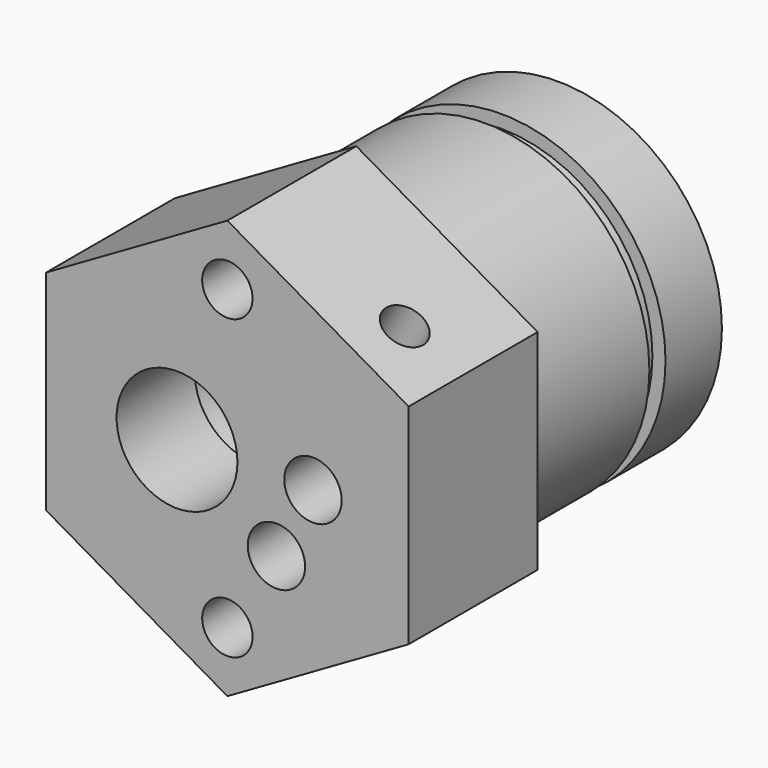
from build123d import *

# Parameters (mm, degrees)
F1_DEPTH  = 41
F2_R      = 24.5503927786
F2_R_2    = 16.3
F3_DEPTH  = 25
F4_R      = 24.0523887052
F4_R_2    = 15
F5_DEPTH  = 9
F6_R      = 16.3
F7_DEPTH  = 7
F8_R      = 2.85
F9_DEPTH  = 41.001
F10_R     = 13.8
F11_DEPTH = 2.3
F12_R     = 6
F13_DEPTH = 41.001
F14_R     = 6.5
F15_DEPTH = 29
F16_R     = 2.5
F17_DEPTH = 13
F18_R     = 2.5
F19_DEPTH = 13
F21_D     = 4.2
F21_DEPTH = 8
F21_TIP   = 1.2618073
F22_R     = 3
F23_DEPTH = 29


with BuildPart() as f1:
    # F0 (on Front) → F1 (new body)
    with BuildSketch(Plane.XZ):
        Polygon((0, -20.7846096908), (18, -10.3923048454), (18, 10.3923048454), (0, 20.7846096908), (-18, 10.3923048454), (-18, -10.3923048454), align=None)
    extrude(amount=-F1_DEPTH)

    # F2 (on face) → F3 (cut)
    with BuildSketch(Plane(origin=(0, 41, 0), x_dir=(-1, 0, 0), z_dir=(0, 1, 0))):
        Circle(F2_R)
        Circle(F2_R_2, mode=Mode.SUBTRACT)
    extrude(amount=-F3_DEPTH, mode=Mode.SUBTRACT)

    # F4 (on face) → F5 (cut)
    with BuildSketch(Plane(origin=(0, 41, 0), x_dir=(-1, 0, 0), z_dir=(0, 1, 0))):
        Circle(F4_R)
        Circle(F4_R_2, mode=Mode.SUBTRACT)
    extrude(amount=-F5_DEPTH, mode=Mode.SUBTRACT)

    # F6 (on face) → F7 (join)
    with BuildSketch(Plane(origin=(0, 41, 0), x_dir=(-1, 0, 0), z_dir=(0, 1, 0))):
        Circle(F6_R)
    extrude(amount=-F7_DEPTH)

    # F8 (on face) → F9 (cut, through all)
    with BuildSketch(Plane.XZ):
        with Locations((4.87, -6.95)):
            Circle(F8_R)
        with Locations((8.5, 0)):
            Circle(F8_R)
    extrude(amount=-F9_DEPTH, mode=Mode.SUBTRACT)

    # F10 (on face) → F11 (cut)
    with BuildSketch(Plane(origin=(0, 41, 0), x_dir=(-1, 0, 0), z_dir=(0, 1, 0))):
        Circle(F10_R)
    extrude(amount=-F11_DEPTH, mode=Mode.SUBTRACT)

    # F12 (on face) → F13 (cut, through all)
    with BuildSketch(Plane.XZ):
        with Locations((-5, 0)):
            Circle(F12_R)
    extrude(amount=-F13_DEPTH, mode=Mode.SUBTRACT)

    # F14 (on face) → F15 (cut)
    with BuildSketch(Plane(origin=(0, 38.7, 0), x_dir=(-1, 0, 0), z_dir=(0, 1, 0))):
        with Locations((5, 0)):
            Circle(F14_R)
    extrude(amount=-F15_DEPTH, mode=Mode.SUBTRACT)

    # F16 (on face) → F17 (cut)
    with BuildSketch(Plane.XZ):
        with Locations((0, 14.7801668913)):
            Circle(F16_R)
    extrude(amount=-F17_DEPTH, mode=Mode.SUBTRACT)

    # F18 (on face) → F19 (cut)
    with BuildSketch(Plane.XZ):
        with Locations((0, -14.7801668913)):
            Circle(F18_R)
    extrude(amount=-F19_DEPTH, mode=Mode.SUBTRACT)

    # F21
    with Locations(Plane(origin=(9, 0, 15.5884572681), x_dir=(0.8660254038, 0, -0.5), z_dir=(0.5, 0, 0.8660254038))):
        with Locations((4.4923048454, 5.9)):
            Hole(F21_D / 2, depth=F21_DEPTH)
            with Locations((0, 0, -(F21_DEPTH + F21_TIP / 2))):  # 118° drill point
                Cone(0, F21_D / 2, F21_TIP, mode=Mode.SUBTRACT)

    # F22 (on face) → F23 (cut)
    with BuildSketch(Plane(origin=(0, 38.7, 0), x_dir=(-1, 0, 0), z_dir=(0, 1, 0))):
        with Locations((-4.62, 7.15)):
            Circle(F22_R)
    extrude(amount=-F23_DEPTH, mode=Mode.SUBTRACT)


solid = f1.part
